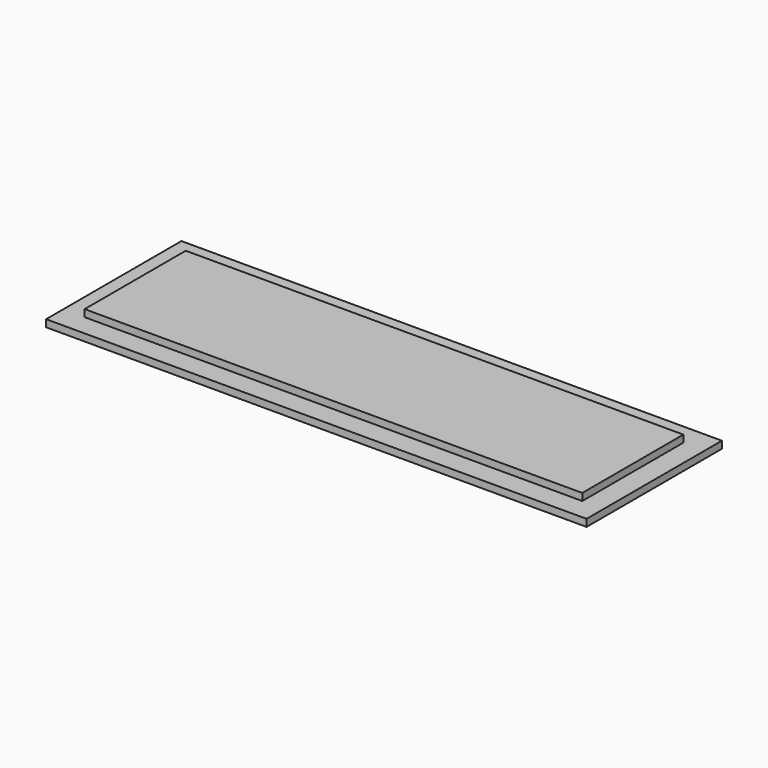
from build123d import *

# Parameters (mm, degrees)
F0_W     = 69.7
F0_H     = 17.7
F1_DEPTH = 1
F3_W     = 75.7
F3_H     = 23.7
F3_W_2   = 69.7
F3_H_2   = 17.7
F4_DEPTH = 1


with BuildPart() as f1:
    # F0 (on Top) → F1 (new body)
    with BuildSketch(Plane.XY):
        Rectangle(F0_W, F0_H)
    extrude(amount=F1_DEPTH)

    # F3 (on face) → F4 (join)
    with BuildSketch(Plane(origin=(0, 0, 0), x_dir=(1, 0, 0), z_dir=(0, 0, -1))):
        Rectangle(F3_W, F3_H)
        Rectangle(F3_W_2, F3_H_2, mode=Mode.SUBTRACT)
        Rectangle(F3_W_2, F3_H_2)
    extrude(amount=F4_DEPTH)


solid = f1.part
